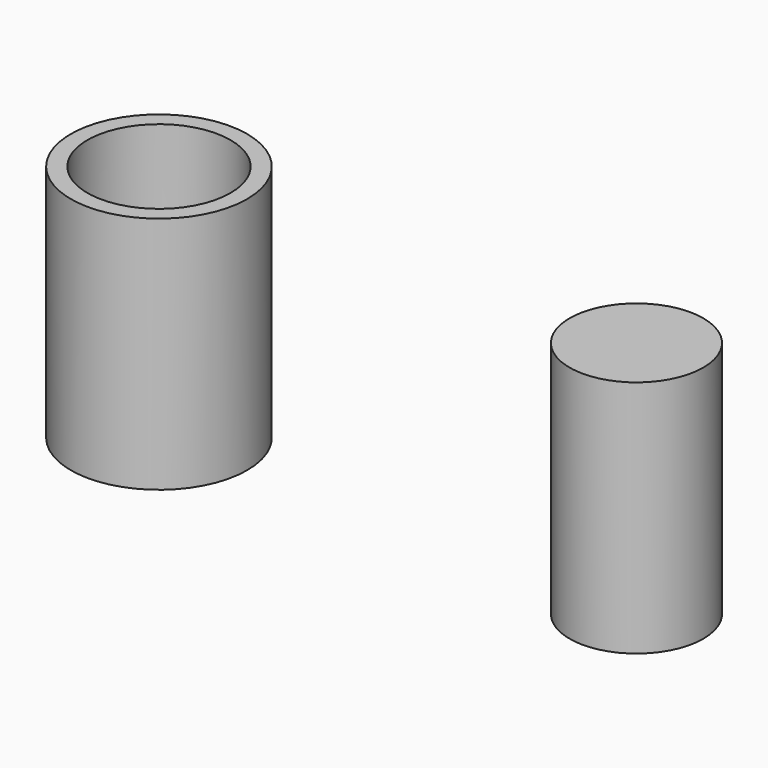
from build123d import *

# Parameters (mm, degrees)
F0_R     = 4.689704
F0_R_2   = 3.81
F0_R_3   = 3.556
F1_DEPTH = 12.7


with BuildPart() as f1:
    # F0 (on Top) → F1 (new body)
    with BuildSketch(Plane.XY):
        with Locations((-25.4, 0)):
            Circle(F0_R)
        with Locations((-25.4, 0)):
            Circle(F0_R_2, mode=Mode.SUBTRACT)
        Circle(F0_R_3)
    extrude(amount=F1_DEPTH)


solid = f1.part
